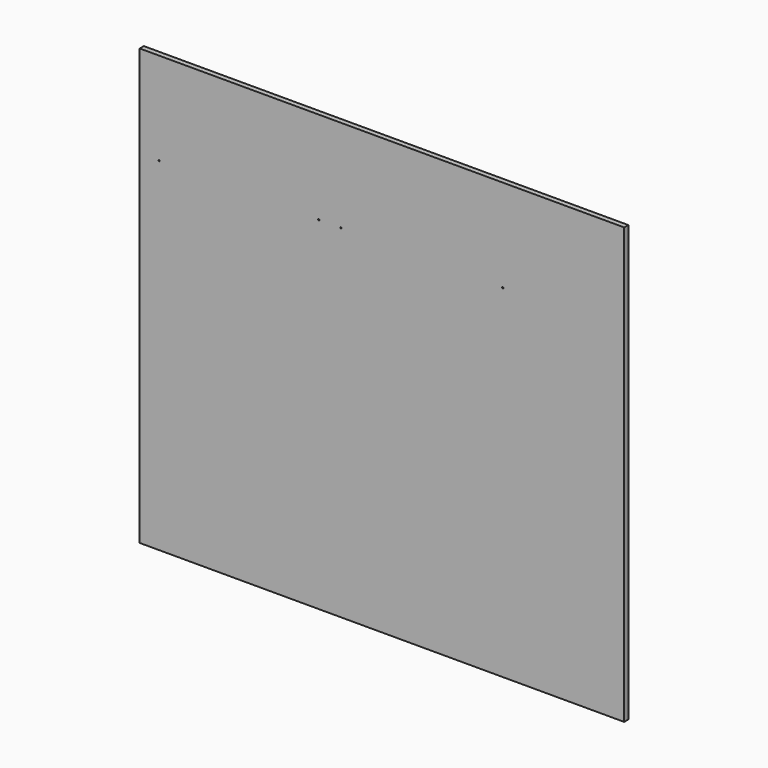
from build123d import *

# Parameters (mm, degrees)
F0_W     = 2395
F0_H     = 2152.2
F0_R     = 3.175
F1_DEPTH = 12.7


with BuildPart() as f1:
    # F0 (on Front) → F1 (new body, symmetric)
    with BuildSketch(Plane.XZ):
        Rectangle(F0_W, F0_H)
        with Locations((-1102.5, 618.9)):
            Circle(F0_R, mode=Mode.SUBTRACT)
        with Locations((-312.5, 618.8928)):
            Circle(F0_R, mode=Mode.SUBTRACT)
        with Locations((-202.5, 618.8928)):
            Circle(F0_R, mode=Mode.SUBTRACT)
        with Locations((597.5, 618.8928)):
            Circle(F0_R, mode=Mode.SUBTRACT)
    extrude(amount=F1_DEPTH, both=True)


solid = f1.part
